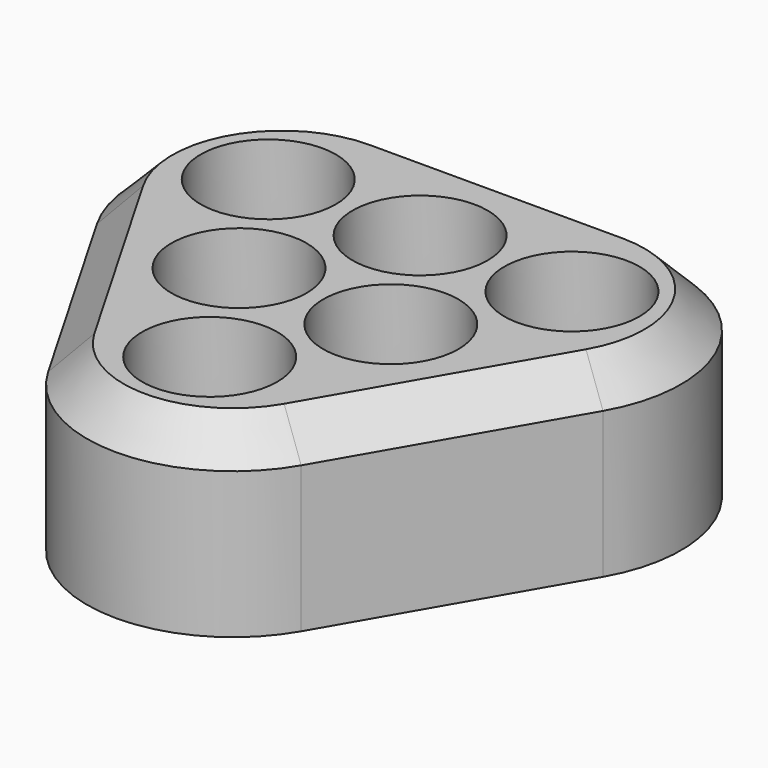
from build123d import *

# Parameters (mm, degrees)
F1_DEPTH = 25
F2_R     = 9.25
F3_DEPTH = 10
F4_SIZE  = 5
F6_DEPTH = 10


with BuildPart() as f1:
    # F0 (on Top) → F1 (new body)
    with BuildSketch(Plane.XY):
        with BuildLine():
            Line((17.320508, 30), (-17.320508, 30))
            ThreePointArc((-17.320508, 30), (-34.641016, 20), (-34.641016, 0))
            Line((-34.641016, 0), (-17.320508, -30))
            ThreePointArc((-17.320508, -30), (0, -40), (17.320508, -30))
            Line((17.320508, -30), (34.641016, 0))
            ThreePointArc((34.641016, 0), (34.641016, 20), (17.320508, 30))
        make_face()
    extrude(amount=F1_DEPTH)

    # F2 (on face) → F3 (cut)
    with BuildSketch(Plane.XY.offset(25)):
        with Locations((-20.78461, 12)):
            Circle(F2_R)
        with Locations((0, -24)):
            Circle(F2_R)
        with Locations((20.78461, 12)):
            Circle(F2_R)
        with Locations((0, 12)):
            Circle(F2_R)
        with Locations((-10.392305, -6)):
            Circle(F2_R)
        with Locations((10.392305, -6)):
            Circle(F2_R)
    extrude(amount=-F3_DEPTH, mode=Mode.SUBTRACT)

    # F4
    f4_edges = [f1.edges().sort_by_distance(p)[0] for p in [
        (25.980762, -15, 25),
    ]]
    chamfer(f4_edges, length=F4_SIZE)

    # F5 (on face) → F6 (cut)
    with BuildSketch(Plane(origin=(0, 0, 0), x_dir=(1, 0, 0), z_dir=(0, 0, -1))):
        with BuildLine():
            ThreePointArc((12.990381, 27.5), (0, 35), (-12.990381, 27.5))
            Line((-12.990381, 27.5), (-30.310889, -2.5))
            ThreePointArc((-30.310889, -2.5), (-30.310889, -17.5), (-17.320508, -25))
            Line((-17.320508, -25), (17.320508, -25))
            ThreePointArc((17.320508, -25), (30.310889, -17.5), (30.310889, -2.5))
            Line((30.310889, -2.5), (12.990381, 27.5))
        make_face()
    extrude(amount=-F6_DEPTH, mode=Mode.SUBTRACT)


solid = f1.part
